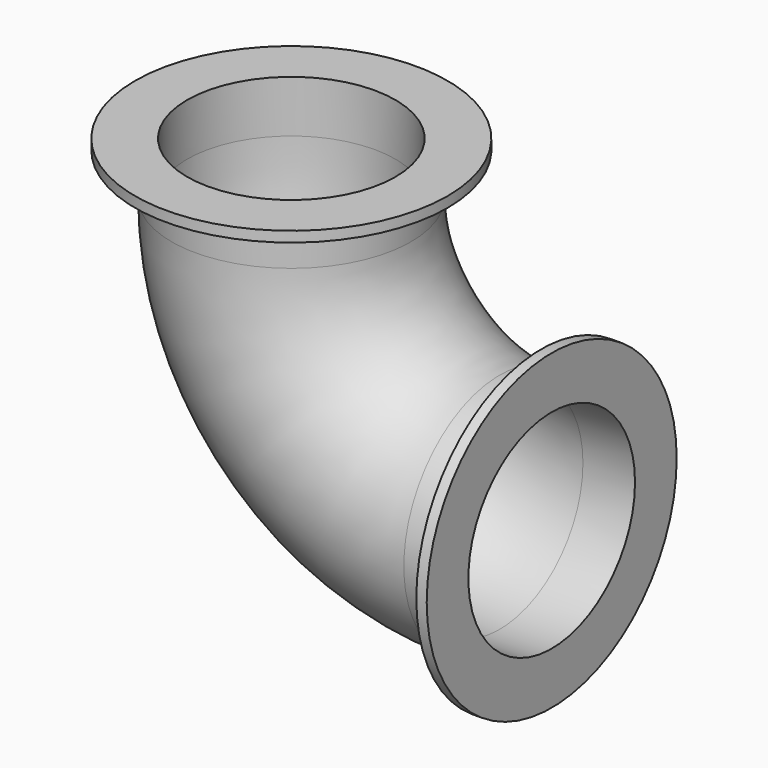
from build123d import *

# Parameters (mm, degrees)
F2_R     = 29.21
F2_R_2   = 25.4
F4_R     = 38.1
F4_R_2   = 25.4
F5_DEPTH = 2.54
F6_R     = 38.1
F6_R_2   = 25.4
F7_DEPTH = 2.54


with BuildPart() as f3:
    # F3: sweep along a path in F0
    with BuildLine(Plane.XZ) as f3_path:
        Line((12.7, 0), (0, 0))
        ThreePointArc((0, 0), (-35.921024, 14.878976), (-50.8, 50.8))
        Line((-50.8, 50.8), (-50.8, 63.5))
    # F2 (on offset) → F3 (sweep)
    with BuildSketch(Plane.YZ.offset(12.7)):
        Circle(F2_R)
        Circle(F2_R_2, mode=Mode.SUBTRACT)
    sweep(path=f3_path.line)

    # F4 (on face) → F5 (join)
    with BuildSketch(Plane.YZ.offset(12.7)):
        Circle(F4_R)
        Circle(F4_R_2, mode=Mode.SUBTRACT)
    extrude(amount=-F5_DEPTH)

    # F6 (on face) → F7 (join)
    with BuildSketch(Plane.XY.offset(63.5)):
        with Locations((-50.8, 0)):
            Circle(F6_R)
        with Locations((-50.8, 0)):
            Circle(F6_R_2, mode=Mode.SUBTRACT)
    extrude(amount=-F7_DEPTH)


solid = f3.part
